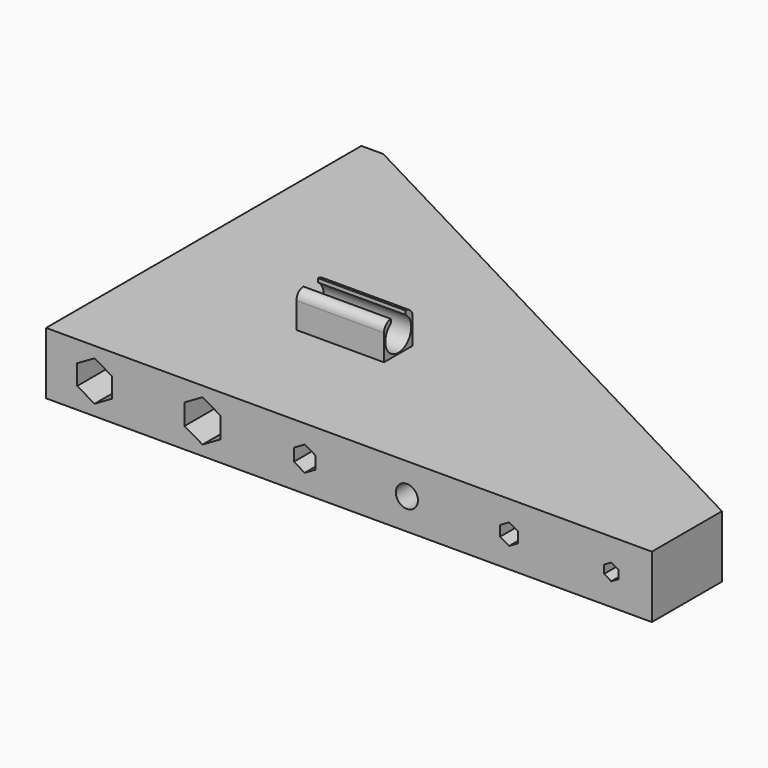
from build123d import *

# Parameters (mm, degrees)
F1_DEPTH  = 8.5
F3_DEPTH  = 68.6
F4_W      = 6
F4_H      = 2.45
F5_DEPTH  = 4.75
F6_R      = 2.225
F7_DEPTH  = 25
F8_R      = 1.2071067812
F9_R      = 1.207
F10_DEPTH = 3


with BuildPart() as f1:
    # F0 (on Top) → F1 (new body)
    with BuildSketch(Plane.XY):
        Polygon((0, 54), (0, 0), (83, 0), (83, 12), (3, 54), align=None)
    extrude(amount=F1_DEPTH)

    # F2 (on face) → F3 (cut)
    with BuildSketch(Plane.XZ):
        Polygon((9.015292082, 4.25), (4.265292082, 4.25), (4.265292082, 2.8787931107), (6.640292082, 1.5075862213), (9.015292082, 2.8787931107), align=None)
        Polygon((4.265292082, 5.6212068893), (4.265292082, 4.25), (9.015292082, 4.25), (9.015292082, 5.6212068893), (6.640292082, 6.9924137787), align=None)
        Polygon((18.96107, 5.6789419162), (18.96107, 4.25), (21.43607, 4.25), (23.91107, 4.25), (23.91107, 5.6789419162), (21.43607, 7.1078838325), align=None)
        Polygon((21.43607, 4.25), (18.96107, 4.25), (18.96107, 2.8210580838), (21.43607, 1.3921161675), (23.91107, 2.8210580838), (23.91107, 4.25), align=None)
        Polygon((33.95607, 5.1044783984), (33.95607, 4.25), (35.43607, 4.25), (36.91607, 4.25), (36.91607, 5.1044783984), (35.43607, 5.9589567968), align=None)
        Polygon((35.43607, 4.25), (33.95607, 4.25), (33.95607, 3.3955216016), (35.43607, 2.5410432032), (36.91607, 3.3955216016), (36.91607, 4.25), align=None)
        with BuildLine():
            Line((49.43607, 4.25), (47.92107, 4.25))
            ThreePointArc((47.92107, 4.25), (49.43607, 2.735), (50.95107, 4.25))
            Line((50.95107, 4.25), (49.43607, 4.25))
        make_face()
        with BuildLine():
            ThreePointArc((50.95107, 4.25), (49.43607, 5.765), (47.92107, 4.25))
            Line((47.92107, 4.25), (49.43607, 4.25))
            Line((49.43607, 4.25), (50.95107, 4.25))
        make_face()
        Polygon((62.20107, 4.9630275824), (62.20107, 4.25), (63.43607, 4.25), (64.67107, 4.25), (64.67107, 4.9630275824), (63.43607, 5.6760551649), align=None)
        Polygon((63.43607, 4.25), (62.20107, 4.25), (62.20107, 3.5369724176), (63.43607, 2.8239448351), (64.67107, 3.5369724176), (64.67107, 4.25), align=None)
        Polygon((77.43607, 4.25), (76.45607, 4.25), (76.45607, 3.6841967362), (77.43607, 3.1183934724), (78.41607, 3.6841967362), (78.41607, 4.25), align=None)
        Polygon((76.45607, 4.8158032638), (76.45607, 4.25), (77.43607, 4.25), (78.41607, 4.25), (78.41607, 4.8158032638), (77.43607, 5.3816065276), align=None)
    extrude(amount=-F3_DEPTH, mode=Mode.SUBTRACT)

    # F4 (on face) → F5 (join)
    with BuildSketch(Plane.XY.offset(8.5)):
        with Locations((30.2142857143, 17.5765829772)):
            Rectangle(F4_W, F4_H)
        with Locations((24.2142857143, 20.0265829772)):
            Rectangle(F4_W, F4_H)
        with Locations((24.2142857143, 17.5765829772)):
            Rectangle(F4_W, F4_H)
        with Locations((30.2142857143, 20.0265829772)):
            Rectangle(F4_W, F4_H)
    extrude(amount=F5_DEPTH)

    # F6 (on face) → F7 (cut)
    with BuildSketch(Plane.YZ.offset(33.2142857143)):
        with Locations((18.8015829772, 10.875)):
            Circle(F6_R)
    extrude(amount=-F7_DEPTH, mode=Mode.SUBTRACT)

    # F8
    f8_edges = [f1.edges().sort_by_distance(p)[0] for p in [
        (27.214286, 21.251583, 13.25),
    ]]
    fillet(f8_edges, radius=F8_R)

    # F9
    f9_edges = [f1.edges().sort_by_distance(p)[0] for p in [
        (27.214286, 16.351583, 13.25),
    ]]
    fillet(f9_edges, radius=F9_R)

    # F10 (cut): a face of the model
    f10_faces = [f1.faces().sort_by_distance(p)[0] for p in [
        (27.2142857143, 18.8015295866, 13.25),
    ]]
    extrude(f10_faces, amount=-F10_DEPTH, mode=Mode.SUBTRACT)


solid = f1.part
